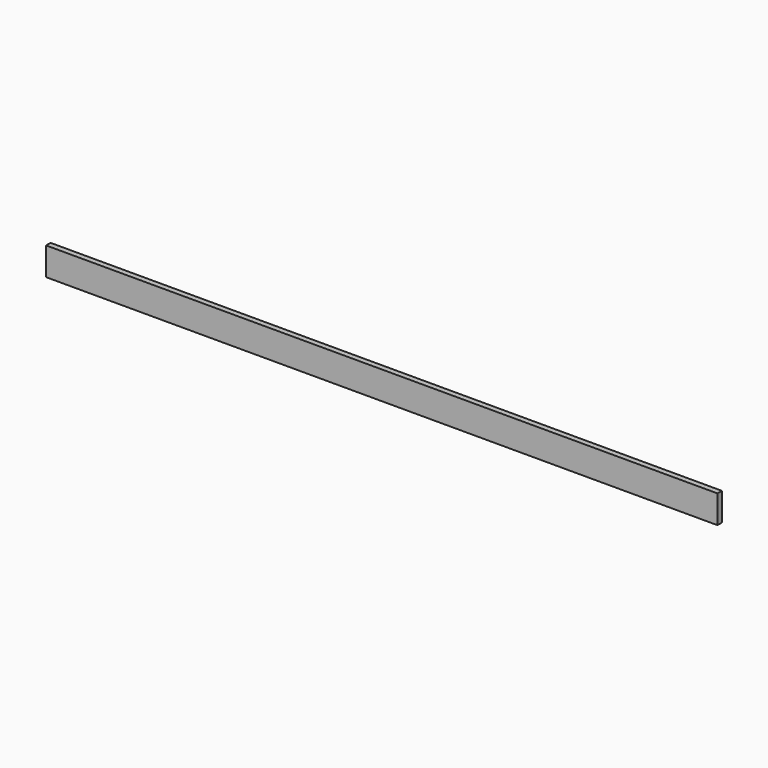
from build123d import *

# Parameters (mm, degrees)
SKETCH_W  = 50.8
SKETCH_H  = 254
PAD_DEPTH = 6096


with BuildPart() as part:
    # Sketch → Pad (new body)
    with BuildSketch(Plane.YZ):
        with Locations((25.4, 127)):
            Rectangle(SKETCH_W, SKETCH_H)
    extrude(amount=PAD_DEPTH)


solid = part.part
